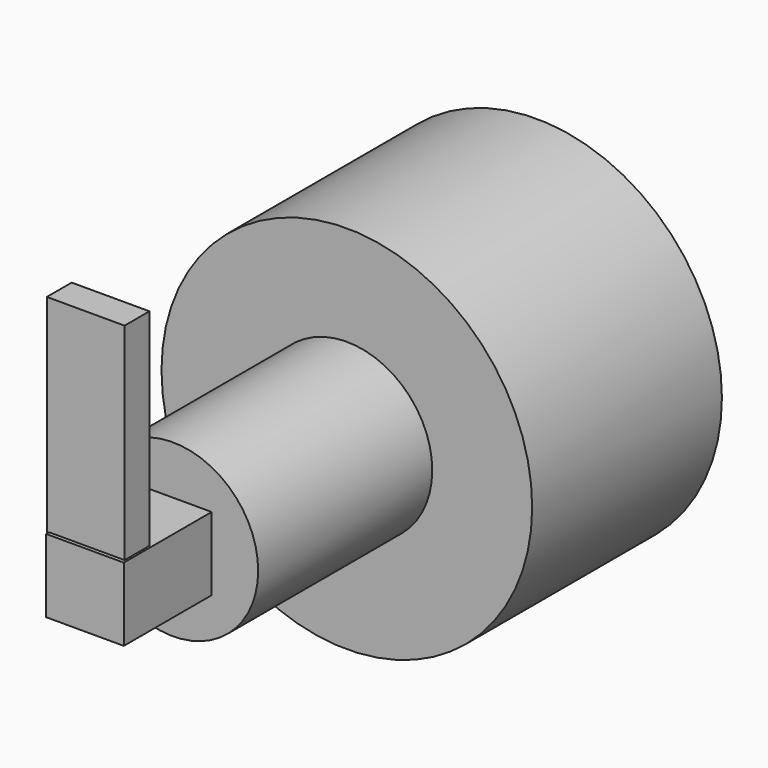
from build123d import *

# Parameters (mm, degrees)
F0_R     = 24.014972
F1_DEPTH = 30.734
F2_R     = 11.066497
F3_DEPTH = 58.928
F4_W     = 10.073201
F4_H     = 9.49759
F5_DEPTH = 73.152
F6_W     = 10.073201
F6_H     = 4.029282
F7_DEPTH = 31.496


with BuildPart() as f1:
    # F0 (on Front) → F1 (new body)
    with BuildSketch(Plane.XZ):
        Circle(F0_R)
    extrude(amount=F1_DEPTH)

    # F2 (on Front) → F3 (join)
    with BuildSketch(Plane.XZ):
        Circle(F2_R)
    extrude(amount=F3_DEPTH)

    # F4 (on Front) → F5 (join)
    with BuildSketch(Plane.XZ):
        with Locations((1e-06, 0)):
            Rectangle(F4_W, F4_H)
    extrude(amount=F5_DEPTH)

    # F6 (on Top) → F7 (join)
    with BuildSketch(Plane.XY):
        with Locations((-0.287809, -70.656318)):
            Rectangle(F6_W, F6_H)
    extrude(amount=F7_DEPTH)


solid = f1.part
